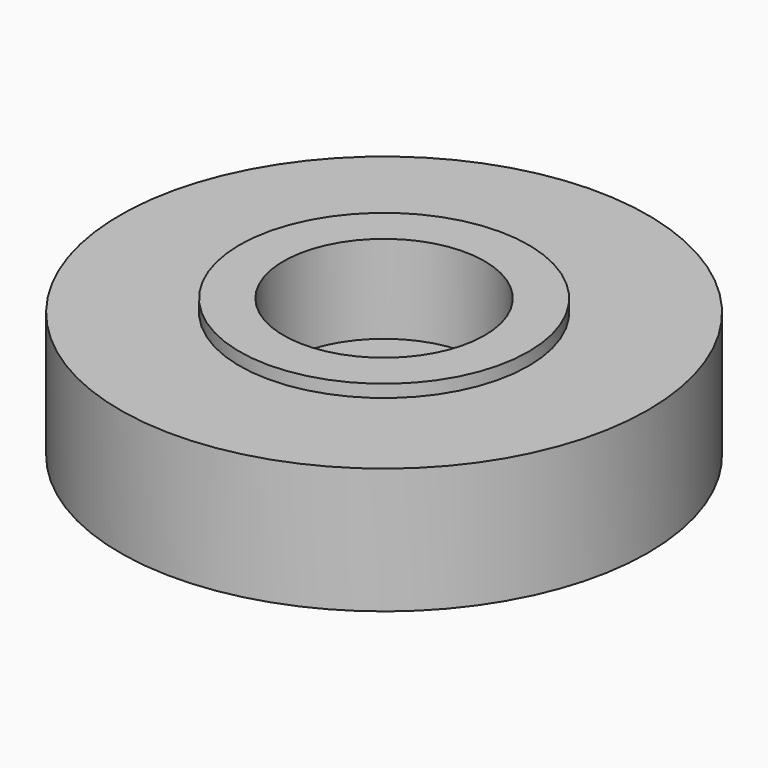
from build123d import *

# Parameters (mm, degrees)
F0_R     = 10.5
F1_DEPTH = 5
F2_R     = 5.75
F3_DEPTH = 0.5
F4_R     = 4
F5_DEPTH = 3.5


with BuildPart() as f1:
    # F0 (on Top) → F1 (new body)
    with BuildSketch(Plane.XY):
        Circle(F0_R)
    extrude(amount=F1_DEPTH)

    # F2 (on face) → F3 (join)
    with BuildSketch(Plane.XY.offset(5)):
        Circle(F2_R)
    extrude(amount=F3_DEPTH)

    # F4 (on face) → F5 (cut)
    with BuildSketch(Plane.XY.offset(5.5)):
        Circle(F4_R)
    extrude(amount=-F5_DEPTH, mode=Mode.SUBTRACT)

    # F6 (on Front) → F7 (revolve, cut)
    with BuildSketch(Plane.XZ):
        with BuildLine():
            Line((0, 1), (0, -39))
            ThreePointArc((0, -39), (20, -19), (0, 1))
        make_face()
    revolve(axis=Axis((0, 0, -19), (0, 0, -1)), mode=Mode.SUBTRACT)


solid = f1.part
